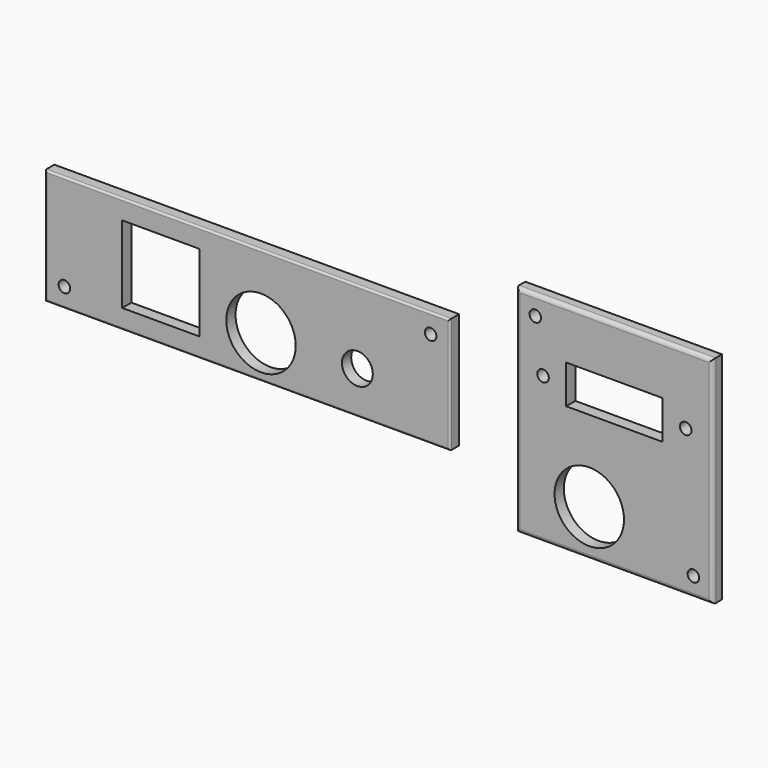
from build123d import *

# Parameters (mm, degrees)
F0_W     = 105
F0_H     = 30
F0_R     = 1.5
F0_R_2   = 9
F0_R_3   = 4
F0_W_2   = 20
F0_H_2   = 20
F1_DEPTH = 3
F2_R     = 0.5
F3_W     = 51
F3_H     = 56
F3_R     = 9
F3_R_2   = 1.5
F3_W_2   = 25
F3_H_2   = 10
F4_DEPTH = 3
F5_R     = 1


with BuildPart() as f1:
    # F0 (on Front) → F1 (new body)
    with BuildSketch(Plane.XZ):
        Rectangle(F0_W, F0_H)
        with Locations((-47.5, -10)):
            Circle(F0_R, mode=Mode.SUBTRACT)
        with Locations((3.5, -4)):
            Circle(F0_R_2, mode=Mode.SUBTRACT)
        with Locations((28.5, -4)):
            Circle(F0_R_3, mode=Mode.SUBTRACT)
        with Locations((-22.5, 0)):
            Rectangle(F0_W_2, F0_H_2, mode=Mode.SUBTRACT)
        with Locations((47.5, 10)):
            Circle(F0_R, mode=Mode.SUBTRACT)
    extrude(amount=F1_DEPTH)

    # F2
    f2_edges = [f1.edges().sort_by_distance(p)[0] for p in [
        (0, -3, 15),
        (-52.5, -3, 0),
        (0, -3, -15),
        (52.5, -3, 0),
    ]]
    fillet(f2_edges, radius=F2_R)


with BuildPart() as f4:
    # F3 (on Front) → F4 (new body)
    with BuildSketch(Plane.XZ):
        with Locations((95.148362, 0)):
            Rectangle(F3_W, F3_H)
        with Locations((88.648362, -16)):
            Circle(F3_R, mode=Mode.SUBTRACT)
        with Locations((115.648362, -23)):
            Circle(F3_R_2, mode=Mode.SUBTRACT)
        with Locations((76.648362, 10)):
            Circle(F3_R_2, mode=Mode.SUBTRACT)
        with Locations((74.648362, 23)):
            Circle(F3_R_2, mode=Mode.SUBTRACT)
        with Locations((95.148362, 10)):
            Rectangle(F3_W_2, F3_H_2, mode=Mode.SUBTRACT)
        with Locations((113.648362, 10)):
            Circle(F3_R_2, mode=Mode.SUBTRACT)
    extrude(amount=F4_DEPTH)

    # F5
    f5_edges = [f4.edges().sort_by_distance(p)[0] for p in [
        (95.148362, -3, 28),
        (69.648362, -3, 0),
        (120.648362, -3, 0),
        (95.148362, -3, -28),
    ]]
    fillet(f5_edges, radius=F5_R)


solid = Compound([f1.part, f4.part])
